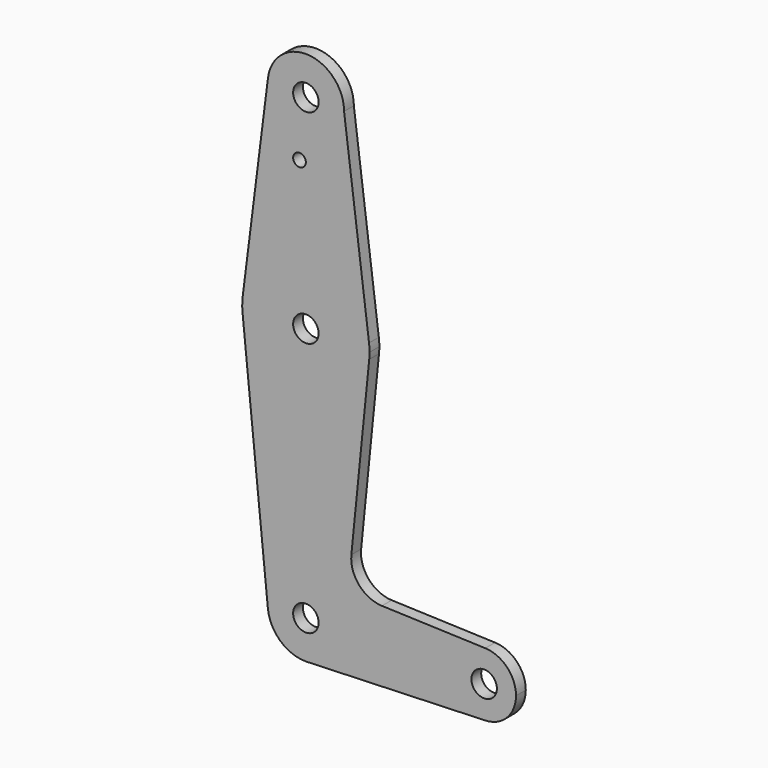
from build123d import *

# Parameters (mm, degrees)
F0_R     = 3.175
F0_R_2   = 1.5875
F1_DEPTH = 3.048


with BuildPart() as f1:
    # F0 (on Front) → F1 (new body)
    with BuildSketch(Plane.XZ):
        with BuildLine():
            ThreePointArc((0.677344, -9.500886), (6.970557, -6.491299), (9.525, 0))
            ThreePointArc((9.525, 0), (-0.476848, 9.513056), (-9.477255, -0.9525))
            ThreePointArc((-9.477255, -0.9525), (-6.389564, -7.063929), (0, -9.525))
            Line((0, -9.525), (0.677344, -9.500886))
        make_face()
        Circle(F0_R, mode=Mode.SUBTRACT)
        with BuildLine():
            ThreePointArc((-9.477255, -0.9525), (-0.476848, 9.513056), (9.525, 0))
            ThreePointArc((9.525, 0), (6.970557, -6.491299), (0.677344, -9.500886))
            Line((0.677344, -9.500886), (44.732405, -7.932475))
            ThreePointArc((44.732405, -7.932475), (36.5125, 0), (44.732405, 7.932475))
            Line((44.732405, 7.932475), (18.968328, 8.849706))
            ThreePointArc((18.968328, 8.849706), (13.261204, 11.567463), (11.340836, 17.589892))
            Line((11.340836, 17.589892), (15.795426, 61.9125))
            ThreePointArc((15.795426, 61.9125), (0, 47.625), (-15.795426, 61.9125))
            Line((-15.795426, 61.9125), (-9.477255, -0.9525))
        make_face()
        with BuildLine():
            ThreePointArc((0, -9.525), (0.338886, -9.51897), (0.677344, -9.500886))
            Line((0.677344, -9.500886), (0, -9.525))
        make_face()
        with BuildLine():
            ThreePointArc((-15.750488, 65.484375), (-15.873744, 63.699705), (-15.795426, 61.9125))
            ThreePointArc((-15.795426, 61.9125), (0, 47.625), (15.795426, 61.9125))
            ThreePointArc((15.795426, 61.9125), (15.855094, 62.705253), (15.875, 63.5))
            ThreePointArc((15.875, 63.5), (15.843082, 64.506168), (15.747457, 65.508289))
            ThreePointArc((15.747457, 65.508289), (-0.012053, 79.374995), (-15.750488, 65.484375))
        make_face()
        with Locations((0, 63.5)):
            Circle(F0_R, mode=Mode.SUBTRACT)
        with BuildLine():
            ThreePointArc((44.732405, 7.932475), (36.5125, 0), (44.732405, -7.932475))
            ThreePointArc((44.732405, -7.932475), (50.161633, -5.51191), (52.3875, 0))
            ThreePointArc((52.3875, 0), (50.161633, 5.51191), (44.732405, 7.932475))
        make_face()
        with Locations((44.45, 0)):
            Circle(F0_R, mode=Mode.SUBTRACT)
        with BuildLine():
            Line((-9.450293, 115.490625), (-15.750488, 65.484375))
            ThreePointArc((-15.750488, 65.484375), (-0.012053, 79.374995), (15.747457, 65.508289))
            Line((15.747457, 65.508289), (9.525, 114.3))
            ThreePointArc((9.525, 114.3), (-0.596483, 104.793695), (-9.450293, 115.490625))
        make_face()
        with Locations((-1.5875, 100.0252)):
            Circle(F0_R_2, mode=Mode.SUBTRACT)
        with BuildLine():
            ThreePointArc((9.525, 114.3), (0.596483, 123.806305), (-9.450293, 115.490625))
            ThreePointArc((-9.450293, 115.490625), (-0.596483, 104.793695), (9.525, 114.3))
        make_face()
        with Locations((0, 114.3)):
            Circle(F0_R, mode=Mode.SUBTRACT)
    extrude(amount=F1_DEPTH)


solid = f1.part
